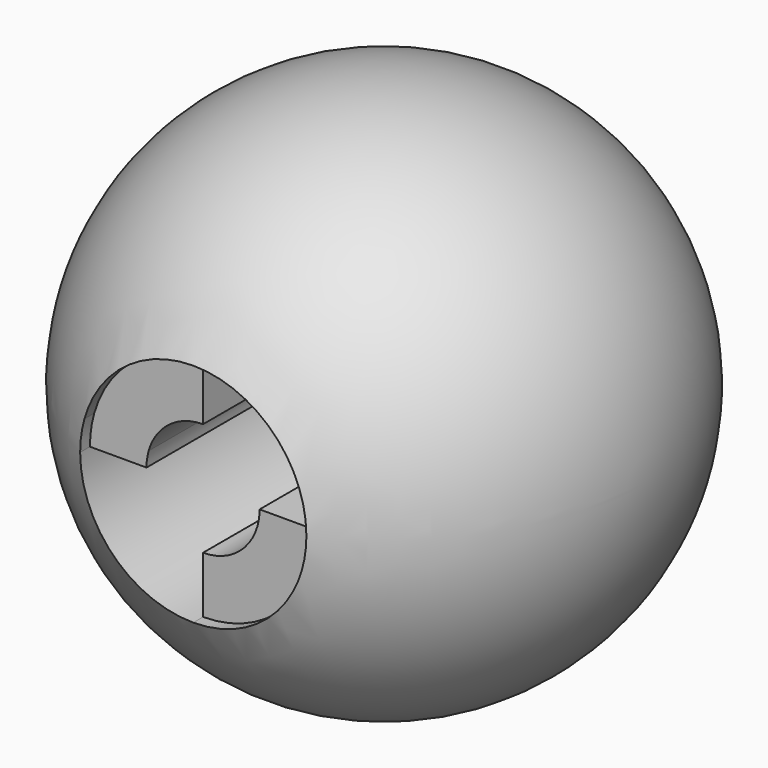
from build123d import *

# Parameters (mm, degrees)
F3_DEPTH = 100
F4_DEPTH = 30
F5_DEPTH = 15
F6_DEPTH = 30


with BuildPart() as f2:
    # F0 (on Top) → F2 (revolve)
    with BuildSketch(Plane.XY):
        with BuildLine():
            Line((35, 0), (-35, 0))
            ThreePointArc((-35, 0), (0, -35), (35, 0))
        make_face()
    revolve(axis=Axis((0, 0, 0), (1, 0, 0)))

    # F1 (on Front) → F3 (cut)
    with BuildSketch(Plane.XZ):
        with BuildLine():
            Line((7.5, 0), (15, 0))
            ThreePointArc((15, 0), (10.606602, 10.606602), (0, 15))
            Line((0, 15), (0, 7.5))
            ThreePointArc((0, 7.5), (-4.522025, 5.983418), (-7.215244, 2.04701))
            Line((-7.215244, 2.04701), (0, 0))
            Line((0, 0), (7.215244, -2.04701))
            ThreePointArc((7.215244, -2.04701), (7.42847, -1.033361), (7.5, 0))
        make_face()
        with BuildLine():
            ThreePointArc((14.430488, -4.094021), (14.85694, -2.066721), (15, 0))
            Line((15, 0), (7.5, 0))
            ThreePointArc((7.5, 0), (7.42847, -1.033361), (7.215244, -2.04701))
            Line((7.215244, -2.04701), (14.430488, -4.094021))
        make_face()
        with BuildLine():
            Line((0, 7.5), (0, 15))
            ThreePointArc((0, 15), (-9.04405, 11.966836), (-14.430488, 4.094021))
            Line((-14.430488, 4.094021), (-7.215244, 2.04701))
            ThreePointArc((-7.215244, 2.04701), (-4.522025, 5.983418), (0, 7.5))
        make_face()
        with BuildLine():
            ThreePointArc((0, -15), (9.04405, -11.966836), (14.430488, -4.094021))
            Line((14.430488, -4.094021), (7.215244, -2.04701))
            ThreePointArc((7.215244, -2.04701), (4.522025, -5.983418), (0, -7.5))
            Line((0, -7.5), (0, -15))
        make_face()
        with BuildLine():
            Line((-7.215244, 2.04701), (-14.430488, 4.094021))
            ThreePointArc((-14.430488, 4.094021), (-14.85694, 2.066721), (-15, 0))
            Line((-15, 0), (-7.5, 0))
            ThreePointArc((-7.5, 0), (-7.42847, 1.033361), (-7.215244, 2.04701))
        make_face()
        with BuildLine():
            ThreePointArc((-15, 0), (-10.606602, -10.606602), (0, -15))
            Line((0, -15), (0, -7.5))
            ThreePointArc((0, -7.5), (4.522025, -5.983418), (7.215244, -2.04701))
            Line((7.215244, -2.04701), (0, 0))
            Line((0, 0), (-7.215244, 2.04701))
            ThreePointArc((-7.215244, 2.04701), (-7.42847, 1.033361), (-7.5, 0))
            Line((-7.5, 0), (-15, 0))
        make_face()
    extrude(amount=F3_DEPTH, mode=Mode.SUBTRACT)

    # F1 (on Front) → F4 (join)
    with BuildSketch(Plane.XZ):
        with BuildLine():
            Line((0, 7.5), (0, 15))
            ThreePointArc((0, 15), (-9.04405, 11.966836), (-14.430488, 4.094021))
            Line((-14.430488, 4.094021), (-7.215244, 2.04701))
            ThreePointArc((-7.215244, 2.04701), (-4.522025, 5.983418), (0, 7.5))
        make_face()
        with BuildLine():
            ThreePointArc((0, -15), (9.04405, -11.966836), (14.430488, -4.094021))
            Line((14.430488, -4.094021), (7.215244, -2.04701))
            ThreePointArc((7.215244, -2.04701), (4.522025, -5.983418), (0, -7.5))
            Line((0, -7.5), (0, -15))
        make_face()
    extrude(amount=F4_DEPTH)

    # F1 (on Front) → F5 (cut)
    with BuildSketch(Plane.XZ):
        with BuildLine():
            Line((0, 7.5), (0, 15))
            ThreePointArc((0, 15), (-9.04405, 11.966836), (-14.430488, 4.094021))
            Line((-14.430488, 4.094021), (-7.215244, 2.04701))
            ThreePointArc((-7.215244, 2.04701), (-4.522025, 5.983418), (0, 7.5))
        make_face()
        with BuildLine():
            ThreePointArc((0, -15), (9.04405, -11.966836), (14.430488, -4.094021))
            Line((14.430488, -4.094021), (7.215244, -2.04701))
            ThreePointArc((7.215244, -2.04701), (4.522025, -5.983418), (0, -7.5))
            Line((0, -7.5), (0, -15))
        make_face()
    extrude(amount=F5_DEPTH, mode=Mode.SUBTRACT)

    # F1 (on Front) → F6 (join)
    with BuildSketch(Plane.XZ):
        with BuildLine():
            Line((-7.215244, 2.04701), (-14.430488, 4.094021))
            ThreePointArc((-14.430488, 4.094021), (-14.85694, 2.066721), (-15, 0))
            Line((-15, 0), (-7.5, 0))
            ThreePointArc((-7.5, 0), (-7.42847, 1.033361), (-7.215244, 2.04701))
        make_face()
        with BuildLine():
            ThreePointArc((14.430488, -4.094021), (14.85694, -2.066721), (15, 0))
            Line((15, 0), (7.5, 0))
            ThreePointArc((7.5, 0), (7.42847, -1.033361), (7.215244, -2.04701))
            Line((7.215244, -2.04701), (14.430488, -4.094021))
        make_face()
    extrude(amount=F6_DEPTH)


solid = f2.part
